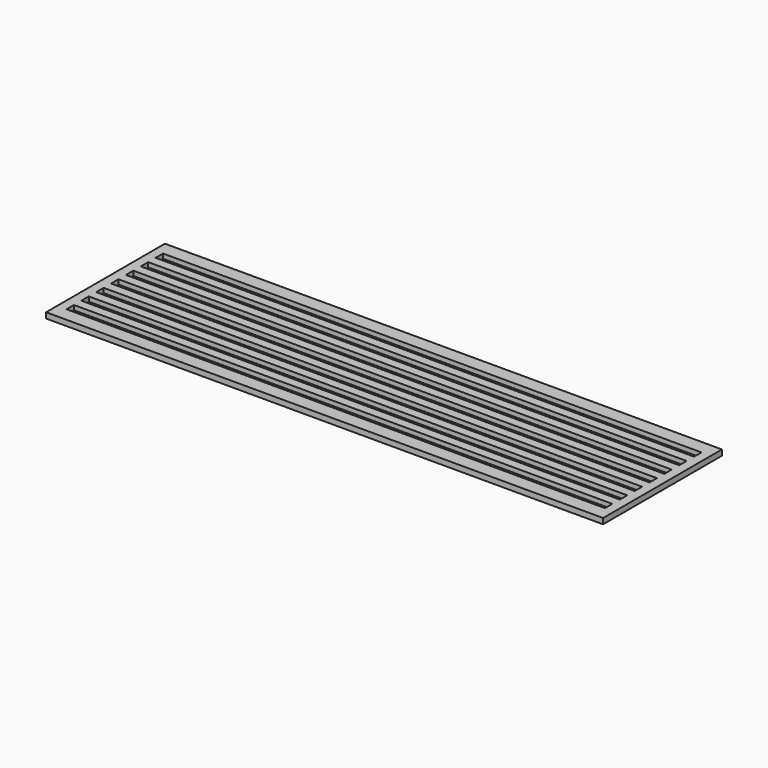
from build123d import *

# Parameters (mm, degrees)
F0_W     = 600
F0_H     = 160
F0_W_2   = 580
F0_H_2   = 10
F1_DEPTH = 5
F2_W     = 600
F2_H     = 160
F3_DEPTH = 1


with BuildPart() as f1:
    # F0 (on Top) → F1 (new body)
    with BuildSketch(Plane.XY):
        with Locations((10.033467, -43.259316)):
            Rectangle(F0_W, F0_H)
        with Locations((10.033467, -103.259316)):
            Rectangle(F0_W_2, F0_H_2, mode=Mode.SUBTRACT)
        with Locations((10.033467, -83.259316)):
            Rectangle(F0_W_2, F0_H_2, mode=Mode.SUBTRACT)
        with Locations((10.033467, -63.259316)):
            Rectangle(F0_W_2, F0_H_2, mode=Mode.SUBTRACT)
        with Locations((10.033467, -43.259316)):
            Rectangle(F0_W_2, F0_H_2, mode=Mode.SUBTRACT)
        with Locations((10.033467, -23.259316)):
            Rectangle(F0_W_2, F0_H_2, mode=Mode.SUBTRACT)
        with Locations((10.033467, -3.259316)):
            Rectangle(F0_W_2, F0_H_2, mode=Mode.SUBTRACT)
        with Locations((10.033467, 16.740684)):
            Rectangle(F0_W_2, F0_H_2, mode=Mode.SUBTRACT)
    extrude(amount=F1_DEPTH)

    # F2 (on face) → F3 (join)
    with BuildSketch(Plane(origin=(0, 0, 0), x_dir=(1, 0, 0), z_dir=(0, 0, -1))):
        with Locations((10.033467, 43.259316)):
            Rectangle(F2_W, F2_H)
    extrude(amount=F3_DEPTH)


solid = f1.part
